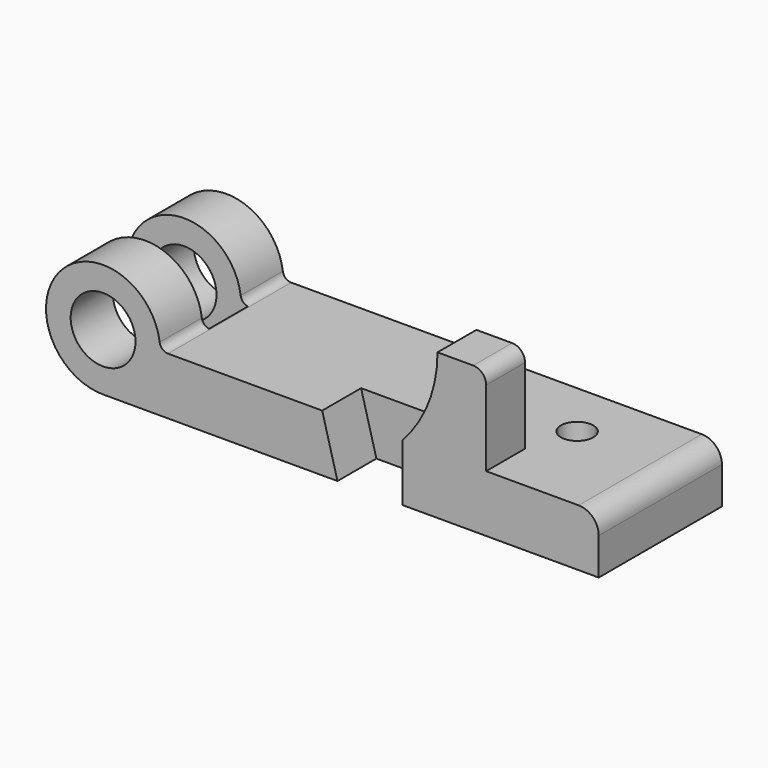
from build123d import *

# Parameters (mm, degrees)
F0_R          = 12.7
F1_DEPTH      = 30.1625
F2_R          = 6.35
F2_W          = 50.010991877
F2_H          = 18.9992
F3_DEPTH      = 22.353
F3_DEPTH_BACK = 25.4
F5_DEPTH      = 19.05
F7_DEPTH      = 19.05
F8_R          = 5.08
F9_R          = 7.874
F10_R         = 3.302


with BuildPart() as f1:
    # F0 (on Front) → F1 (new body, symmetric)
    with BuildSketch(Plane.XZ):
        with BuildLine():
            Line((194.2084, 0), (22.352, 0))
            ThreePointArc((22.352, 0), (-15.8052507731, 15.8052507731), (0, -22.352))
            Line((0, -22.352), (194.2084, -22.352))
            Line((194.2084, -22.352), (194.2084, 0))
        make_face()
        Circle(F0_R, mode=Mode.SUBTRACT)
    extrude(amount=F1_DEPTH, both=True)

    # F2 (on Top) → F3 (cut, two sides)
    with BuildSketch(Plane.XY) as f3_sk:
        with Locations((155.3464, 7.8105)):
            Circle(F2_R)
        Rectangle(F2_W, F2_H)
    extrude(amount=-F3_DEPTH, mode=Mode.SUBTRACT)
    extrude(f3_sk.sketch, amount=F3_DEPTH_BACK, mode=Mode.SUBTRACT)

    # F4 (on face) → F5 (cut)
    with BuildSketch(Plane.XZ.offset(30.1625)):
        Polygon((117.2464, -22.352), (117.2464, 0), (85.852, 0), (91.8464, -22.352), align=None)
    extrude(amount=-F5_DEPTH, mode=Mode.SUBTRACT)

    # F6 (on face) → F7 (join)
    with BuildSketch(Plane.XZ.offset(30.1625)):
        with BuildLine():
            Line((117.2464, 0), (150.0886, 0))
            Line((150.0886, 0), (150.0886, 34.798))
            Line((150.0886, 34.798), (131.0386, 34.798))
            ThreePointArc((131.0386, 34.798), (127.4644153616, 16.0823576341), (117.2464, 0))
        make_face()
    extrude(amount=-F7_DEPTH)

    # F8
    f8_edges = [f1.edges().sort_by_distance(p)[0] for p in [
        (150.0886, -20.6375, 34.798),
    ]]
    fillet(f8_edges, radius=F8_R)

    # F9
    f9_edges = [f1.edges().sort_by_distance(p)[0] for p in [
        (194.2084, 0, 0),
    ]]
    fillet(f9_edges, radius=F9_R)

    # F10
    f10_edges = [f1.edges().sort_by_distance(p)[0] for p in [
        (22.352, -19.83105, 0),
    ]]
    fillet(f10_edges, radius=F10_R)


solid = f1.part
